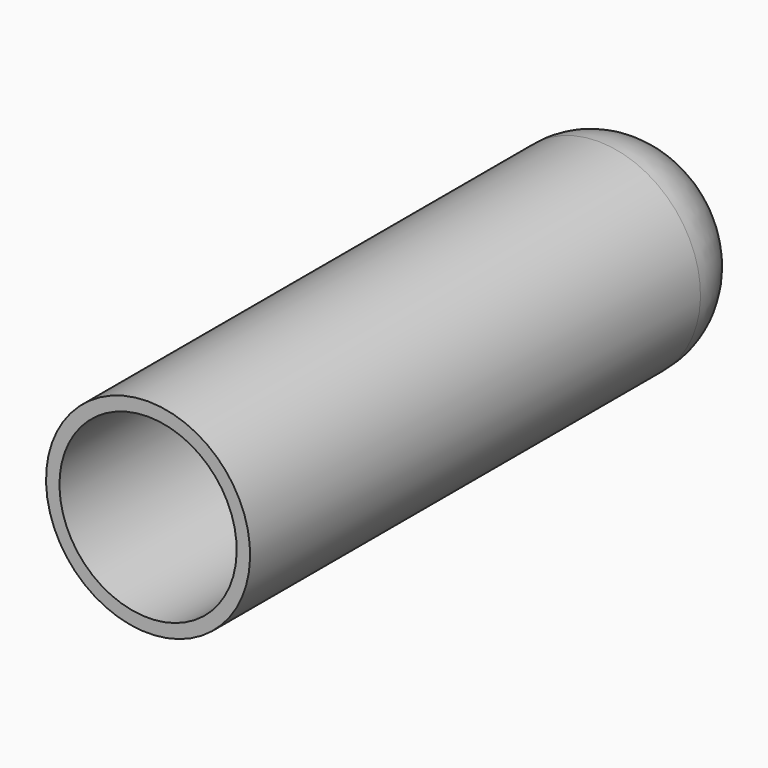
from build123d import *


with BuildPart() as f1:
    # F0 (on Right) → F1 (revolve)
    with BuildSketch(Plane.YZ):
        with BuildLine():
            Line((61.929024, 26.573636), (-84.680414, 26.573636))
            Line((-84.680414, 26.573636), (-84.680414, 23.073636))
            Line((-84.680414, 23.073636), (0.319586, 23.073636))
            Line((0.319586, 23.073636), (0.319586, 0))
            Line((0.319586, 0), (81.929024, 0))
            Line((81.929024, 0), (81.929024, 6.573636))
            ThreePointArc((81.929024, 6.573636), (76.07116, 20.715772), (61.929024, 26.573636))
        make_face()
    revolve(axis=Axis((0, -6.218993, 0), (0, -1, 0)))


solid = f1.part
